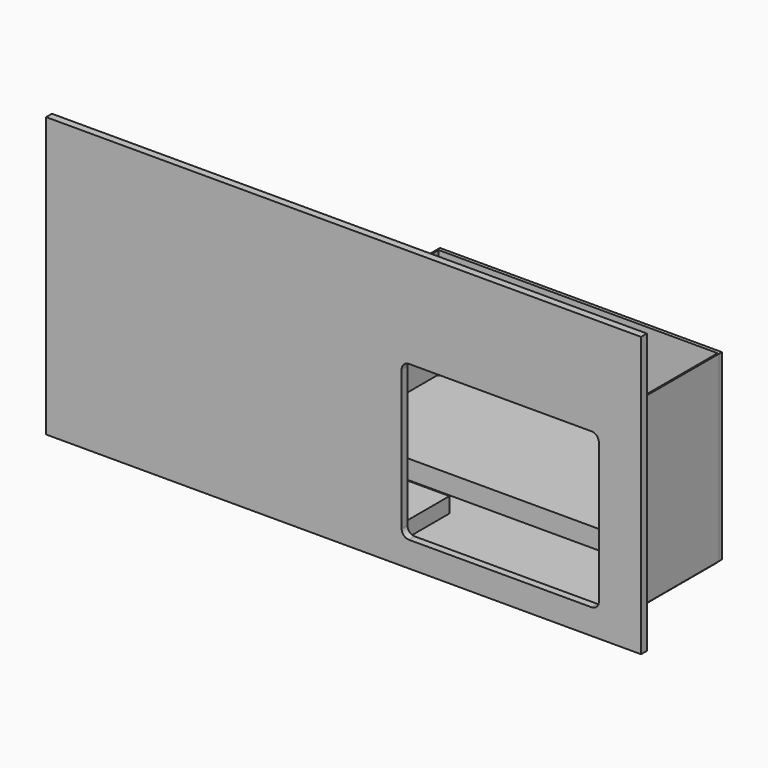
from build123d import *

# Parameters (mm, degrees)
F0_W      = 1910
F0_H      = 860
F1_DEPTH  = 10
F2_W      = 450
F2_H      = 390
F3_DEPTH  = 105
F2_W_2    = 1910
F2_H_2    = 140
F4_DEPTH  = 95
F0_W_2    = 10
F5_DEPTH  = 1250
F6_DEPTH  = 1250
F7_W      = 860
F7_H      = 25
F8_DEPTH  = 35
F9_W      = 860
F9_H      = 25
F10_DEPTH = 35
F11_W     = 1930
F11_H     = 23.869872
F12_DEPTH = 1250
F14_DEPTH = 219
F13_W     = 885
F13_H     = 740
F15_DEPTH = 210
F17_DEPTH = 130
F18_W     = 4072.043269
F18_H     = 1912.433385
F19_DEPTH = 50
F21_DEPTH = 620


with BuildPart() as f1:
    # F0 (on Top) → F1 (new body)
    with BuildSketch(Plane.XY):
        with Locations((-955, 430)):
            Rectangle(F0_W, F0_H)
    extrude(amount=-F1_DEPTH)

    # F2 (on face) → F3 (join)
    with BuildSketch(Plane.XY):
        with Locations((-1685, 195)):
            Rectangle(F2_W, F2_H)
    extrude(amount=F3_DEPTH)

    # F2 (on face) → F4 (join)
    with BuildSketch(Plane.XY):
        with Locations((-955, 790)):
            Rectangle(F2_W_2, F2_H_2)
    extrude(amount=F4_DEPTH)


with BuildPart() as f5:
    # F0 (on Top) → F5 (new body)
    with BuildSketch(Plane.XY):
        with Locations((5, 430)):
            Rectangle(F0_W_2, F0_H)
    extrude(amount=F5_DEPTH)

    # F7 (on face) → F8 (join)
    with BuildSketch(Plane(origin=(0, 0, 0), x_dir=(0, -1, 0), z_dir=(-1, 0, 0))):
        with Locations((-430, 357.5)):
            Rectangle(F7_W, F7_H)
    extrude(amount=F8_DEPTH)


with BuildPart() as f6:
    # F0 (on Top) → F6 (new body)
    with BuildSketch(Plane.XY):
        with Locations((-1915, 430)):
            Rectangle(F0_W_2, F0_H)
    extrude(amount=F6_DEPTH)

    # F9 (on face) → F10 (join)
    with BuildSketch(Plane.YZ.offset(-1910)):
        with Locations((430, 357.5)):
            Rectangle(F9_W, F9_H)
    extrude(amount=F10_DEPTH)


with BuildPart() as f12:
    # F11 (on Top) → F12 (new body)
    with BuildSketch(Plane.XY):
        with Locations((-955, 871.934936)):
            Rectangle(F11_W, F11_H)
    extrude(amount=F12_DEPTH)

    # F13 (on face) → F14 (cut)
    with BuildSketch(Plane.XZ.offset(-860)):
        with BuildLine():
            Line((-1015, 345), (-1645, 345))
            ThreePointArc((-1645, 345), (-1652.071068, 342.071068), (-1655, 335))
            Line((-1655, 335), (-1655, 105))
            ThreePointArc((-1655, 105), (-1652.071068, 97.928932), (-1645, 95))
            Line((-1645, 95), (-1015, 95))
            ThreePointArc((-1015, 95), (-1007.928932, 97.928932), (-1005, 105))
            Line((-1005, 105), (-1005, 335))
            ThreePointArc((-1005, 335), (-1007.928932, 342.071068), (-1015, 345))
        make_face()
    extrude(amount=-F14_DEPTH, mode=Mode.SUBTRACT)

    # F13 (on face) → F15 (cut)
    with BuildSketch(Plane.XZ.offset(-860)):
        with Locations((-1357.5, 770)):
            Rectangle(F13_W, F13_H)
    extrude(amount=-F15_DEPTH, mode=Mode.SUBTRACT)


with BuildPart() as f17:
    # F16 (on face) → F17 (new body)
    with BuildSketch(Plane.XY.offset(370)):
        with BuildLine():
            Line((-20, 860), (-1890, 860))
            ThreePointArc((-1890, 860), (-1904.142136, 854.142136), (-1910, 840))
            Line((-1910, 840), (-1910, 20))
            ThreePointArc((-1910, 20), (-1904.142136, 5.857864), (-1890, 0))
            Line((-1890, 0), (-20, 0))
            ThreePointArc((-20, 0), (-5.857864, 5.857864), (0, 20))
            Line((0, 20), (0, 840))
            ThreePointArc((0, 840), (-5.857864, 854.142136), (-20, 860))
        make_face()
    extrude(amount=F17_DEPTH)


with BuildPart() as f19:
    # F18 (on Front) → F19 (new body)
    with BuildSketch(Plane.XZ):
        with Locations((-1832.532003, 828.006267)):
            Rectangle(F18_W, F18_H)
    extrude(amount=F19_DEPTH)

    # F20 (on face) → F21 (cut)
    with BuildSketch(Plane(origin=(0, 0, 0), x_dir=(-1, 0, 0), z_dir=(0, 1, 0))):
        with BuildLine():
            Line((1385, 1105), (135, 1105))
            ThreePointArc((135, 1105), (99.644661, 1090.355339), (85, 1055))
            Line((85, 1055), (85, 95))
            ThreePointArc((85, 95), (99.644661, 59.644661), (135, 45))
            Line((135, 45), (1385, 45))
            ThreePointArc((1385, 45), (1420.355339, 59.644661), (1435, 95))
            Line((1435, 95), (1435, 1055))
            ThreePointArc((1435, 1055), (1420.355339, 1090.355339), (1385, 1105))
        make_face()
    extrude(amount=-F21_DEPTH, mode=Mode.SUBTRACT)


solid = Compound([f1.part, f5.part, f6.part, f12.part, f17.part, f19.part])
